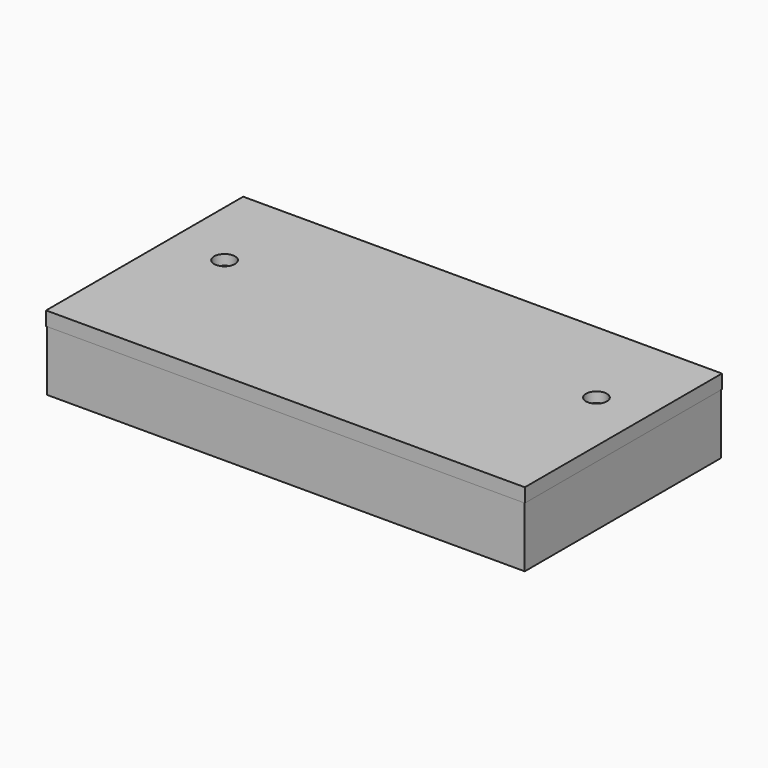
from build123d import *

# Parameters (mm, degrees)
SKETCH068_W         = 103
SKETCH068_H         = 53
PAD046_DEPTH        = 3
HOLE004_D           = 4.5
HOLE004_DEPTH       = 25
HOLE004_CSINK_D     = 6.1
HOLE004_CSINK_ANGLE = 90
PAD047_DEPTH        = 7
SKETCH071_W         = 102.8
SKETCH071_H         = 52.8
SKETCH071_W_2       = 100.8
SKETCH071_H_2       = 50.8
PAD048_DEPTH        = 13
PAD049_DEPTH        = 7
PAD050_DEPTH        = 5
PAD051_DEPTH        = 4
SKETCH076_W         = 10
SKETCH076_H         = 10
POCKET015_DEPTH     = 5


with BuildPart() as part:
    # Sketch068 → Pad046 (new body)
    with BuildSketch(Plane.XY):
        with Locations((51.5, 26.5)):
            Rectangle(SKETCH068_W, SKETCH068_H)
    extrude(amount=-PAD046_DEPTH)

    # Hole004
    with Locations(Plane(origin=(0, 0, -3), x_dir=(1, 0, 0), z_dir=(0, 0, -1))):
        with Locations((12, -33), (92, -33)):
            CounterSinkHole(HOLE004_D / 2, HOLE004_CSINK_D / 2, depth=HOLE004_DEPTH, counter_sink_angle=HOLE004_CSINK_ANGLE)

    # Sketch070 → Pad047 (join)
    with BuildSketch(Plane.XY.offset(-3)):
        Polygon((0, 49.5), (41, 49.5), (41, 44.5), (40, 44.5), (40, 48.5), (1, 48.5), (1, 16.5), (40, 16.5), (40, 20.5), (41, 20.5), (41, 15.5), (0, 15.5), align=None)
    extrude(amount=-PAD047_DEPTH)

    # Sketch071 → Pad048 (join)
    with BuildSketch(Plane.XY.offset(-3)):
        with Locations((51.5, 26.5)):
            Rectangle(SKETCH071_W, SKETCH071_H)
        with Locations((51.5, 26.5)):
            Rectangle(SKETCH071_W_2, SKETCH071_H_2, mode=Mode.SUBTRACT)
    extrude(amount=-PAD048_DEPTH)

    # Sketch073 → Pad049 (join)
    with BuildSketch(Plane.XY.offset(-3)):
        Polygon((52, 1), (84, 1), (84, 16.5), (62, 16.5), (62, 15), (83, 15), (83, 2), (53, 2), (53, 7), (52, 7), align=None)
    extrude(amount=-PAD049_DEPTH)

    # Sketch074 → Pad050 (join)
    with BuildSketch(Plane.XY.offset(-3)):
        Polygon((53, 7), (53, 2), (83, 2), (83, 15), (62, 15), (62, 14), (82, 14), (82, 3), (54, 3), (54, 7), align=None)
    extrude(amount=-PAD050_DEPTH)

    # Sketch075 → Pad051 (join)
    with BuildSketch(Plane.XY.offset(-3)):
        Polygon((40, 20.5), (39, 20.5), (39, 17.5), (1.1, 17.5), (1.1, 16.5), (40, 16.5), align=None)
        Polygon((40, 44.5), (40, 48.5), (1.1, 48.5), (1.1, 47.5), (39, 47.5), (39, 44.5), align=None)
    extrude(amount=-PAD051_DEPTH)

    # Sketch076 → Pocket015 (cut)
    with BuildSketch(Plane.YZ):
        with Locations((32.5, -8)):
            Rectangle(SKETCH076_W, SKETCH076_H)
    extrude(amount=POCKET015_DEPTH, mode=Mode.SUBTRACT)


with BuildPart() as part_1:
    # Body020 placement: moved
    add(part.part.moved(Location((3, 3, 17))))


solid = part_1.part
